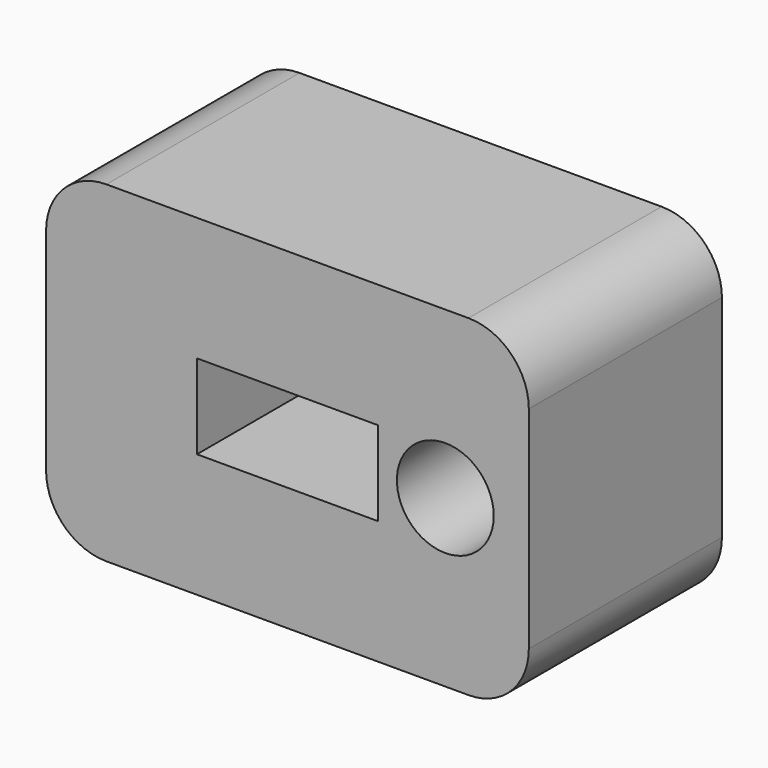
from build123d import *

# Parameters (mm, degrees)
F0_W     = 101.6
F0_H     = 69.85
F0_W_2   = 38.1
F0_H_2   = 17.780002
F1_DEPTH = 25.4
F2_R     = 10.192823
F3_DEPTH = 50.801
F4_R     = 12.7


with BuildPart() as f1:
    # F0 (on Front) → F1 (new body, symmetric)
    with BuildSketch(Plane.XZ):
        Rectangle(F0_W, F0_H)
        Rectangle(F0_W_2, F0_H_2, mode=Mode.SUBTRACT)
    extrude(amount=F1_DEPTH, both=True)

    # F2 (on face) → F3 (cut, through all)
    with BuildSketch(Plane.XZ.offset(25.4)):
        with Locations((33.223767, 0)):
            Circle(F2_R)
    extrude(amount=-F3_DEPTH, mode=Mode.SUBTRACT)

    # F4
    f4_edges = [f1.edges().sort_by_distance(p)[0] for p in [
        (-50.8, 0, 34.925),
        (50.8, 0, 34.925),
        (50.8, 0, -34.925),
        (-50.8, 0, -34.925),
    ]]
    fillet(f4_edges, radius=F4_R)


solid = f1.part
